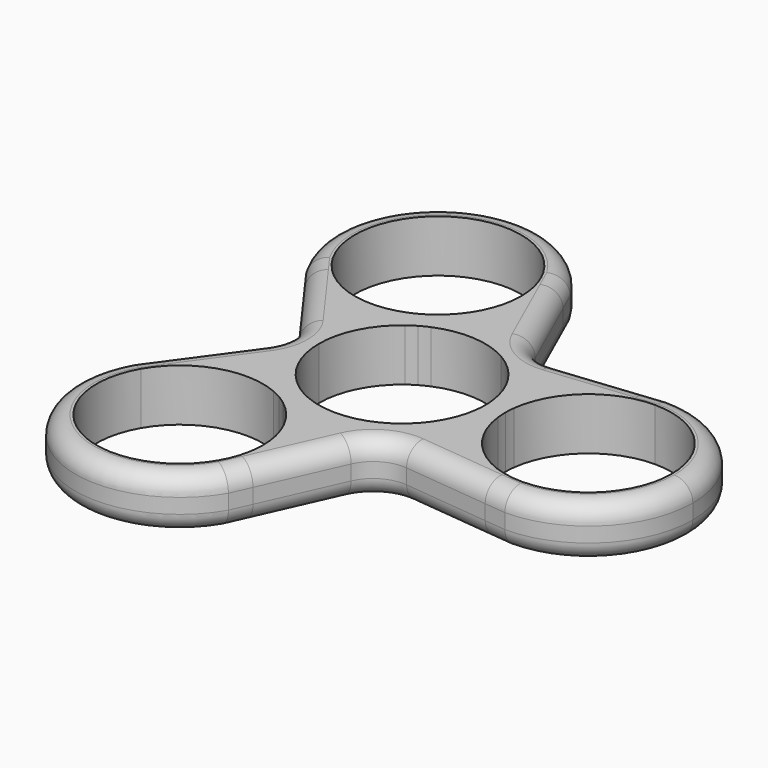
from build123d import *

# Parameters (mm, degrees)
F1_DEPTH = 7
F2_R     = 5
F3_R     = 2.5


with BuildPart() as f1:
    # F0 (on Top) → F1 (new body)
    with BuildSketch(Plane.XY):
        with BuildLine():
            Line((-129.1877796705, 35.6983955948), (-126.7196072697, 37.1233955948))
            ThreePointArc((-126.7196072697, 37.1233955948), (-145.8439629227, 42.2477512478), (-150.9683185757, 23.1233955948))
            Line((-150.9683185757, 23.1233955948), (-148.5001461749, 24.5483955948))
            ThreePointArc((-148.5001461749, 24.5483955948), (-144.4189629227, 39.779578847), (-129.1877796705, 35.6983955948))
        make_face()
        with BuildLine():
            ThreePointArc((-132.1308488185, 21.220778057), (-129.6893499336, 22.0671853041), (-127.1338805057, 22.4504581008))
            ThreePointArc((-127.1338805057, 22.4504581008), (-125.428651636, 26.119719399), (-124.8439629227, 30.1233955948))
            ThreePointArc((-124.8439629227, 30.1233955948), (-125.0182852132, 32.325811512), (-125.5369109044, 34.4733802595))
            Line((-125.5369109044, 34.4733802595), (-126.7196072697, 37.1233955948))
            Line((-126.7196072697, 37.1233955948), (-129.1877796705, 35.6983955948))
            ThreePointArc((-129.1877796705, 35.6983955948), (-128.0738899596, 33.0092279477), (-127.6939629227, 30.1233955948))
            ThreePointArc((-127.6939629227, 30.1233955948), (-128.8646412458, 25.1499019667), (-132.1308488185, 21.220778057))
        make_face()
        with BuildLine():
            Line((-148.5001461749, 24.5483955948), (-150.9683185757, 23.1233955948))
            Line((-150.9683185757, 23.1233955948), (-149.2646861575, 20.7741428299))
            ThreePointArc((-149.2646861575, 20.7741428299), (-144.1865961475, 17.1829060282), (-138.0540453397, 16.1456979943))
            ThreePointArc((-138.0540453397, 16.1456979943), (-136.4443866472, 18.1671630391), (-134.4906270269, 19.8583594732))
            ThreePointArc((-134.4906270269, 19.8583594732), (-142.3836178814, 19.5501584948), (-148.5001461749, 24.5483955948))
        make_face()
        with BuildLine():
            Line((-131.9189629227, 18.1289437524), (-133.2689629227, 20.4672123426))
            ThreePointArc((-133.2689629227, 20.4672123426), (-133.8704692945, 20.144073918), (-134.4906270269, 19.8583594732))
            ThreePointArc((-134.4906270269, 19.8583594732), (-136.4443866472, 18.1671630391), (-138.0540453397, 16.1456979943))
            ThreePointArc((-138.0540453397, 16.1456979943), (-135.4985759118, 16.528970791), (-133.0570770269, 17.375378038))
            ThreePointArc((-133.0570770269, 17.375378038), (-132.4995621933, 17.7695931662), (-131.9189629227, 18.1289437524))
        make_face()
        with BuildLine():
            ThreePointArc((-130.6972988185, 18.7377966218), (-128.7435391981, 20.428993056), (-127.1338805057, 22.4504581008))
            ThreePointArc((-127.1338805057, 22.4504581008), (-129.6893499336, 22.0671853041), (-132.1308488185, 21.220778057))
            ThreePointArc((-132.1308488185, 21.220778057), (-132.6883636521, 20.8265629289), (-133.2689629227, 20.4672123426))
            Line((-133.2689629227, 20.4672123426), (-131.9189629227, 18.1289437524))
            ThreePointArc((-131.9189629227, 18.1289437524), (-131.3174565508, 18.4520821771), (-130.6972988185, 18.7377966218))
        make_face()
        with BuildLine():
            Line((-120.7689629227, 18.1289437524), (-119.3439629227, 20.5971161532))
            ThreePointArc((-119.3439629227, 20.5971161532), (-123.1035925735, 22.0925989721), (-127.1338805057, 22.4504581008))
            ThreePointArc((-127.1338805057, 22.4504581008), (-128.7435391981, 20.428993056), (-130.6972988185, 18.7377966218))
            ThreePointArc((-130.6972988185, 18.7377966218), (-125.6614739118, 19.601853399), (-120.7689629227, 18.1289437524))
        make_face()
        with BuildLine():
            Line((-140.3439629227, 8.4727605002), (-137.4939629227, 8.4727605002))
            ThreePointArc((-137.4939629227, 8.4727605002), (-136.3232845996, 13.4462541284), (-133.0570770269, 17.375378038))
            ThreePointArc((-133.0570770269, 17.375378038), (-135.4985759118, 16.528970791), (-138.0540453397, 16.1456979943))
            ThreePointArc((-138.0540453397, 16.1456979943), (-139.7592742094, 12.4764366961), (-140.3439629227, 8.4727605002))
        make_face()
        with BuildLine():
            ThreePointArc((-133.0570770269, -0.4298570376), (-136.3232845996, 3.4992668721), (-137.4939629227, 8.4727605002))
            Line((-137.4939629227, 8.4727605002), (-140.3439629227, 8.4727605002))
            ThreePointArc((-140.3439629227, 8.4727605002), (-139.7592742094, 4.4690843044), (-138.0540453397, 0.7998230062))
            ThreePointArc((-138.0540453397, 0.7998230062), (-135.4985759118, 0.4165502095), (-133.0570770269, -0.4298570376))
        make_face()
        with BuildLine():
            Line((-149.2646861575, -3.8286218294), (-150.9683185757, -6.1778745944))
            Line((-150.9683185757, -6.1778745944), (-148.5001461749, -7.6028745944))
            ThreePointArc((-148.5001461749, -7.6028745944), (-142.3836178814, -2.6046374944), (-134.4906270269, -2.9128384728))
            ThreePointArc((-134.4906270269, -2.9128384728), (-136.4443866472, -1.2216420386), (-138.0540453397, 0.7998230062))
            ThreePointArc((-138.0540453397, 0.7998230062), (-144.1865961475, -0.2373850277), (-149.2646861575, -3.8286218294))
        make_face()
        with BuildLine():
            ThreePointArc((-134.4906270269, -2.9128384728), (-133.8704692945, -3.1985529175), (-133.2689629227, -3.5216913422))
            Line((-133.2689629227, -3.5216913422), (-131.9189629227, -1.183422752))
            ThreePointArc((-131.9189629227, -1.183422752), (-132.4995621933, -0.8240721658), (-133.0570770269, -0.4298570376))
            ThreePointArc((-133.0570770269, -0.4298570376), (-135.4985759118, 0.4165502095), (-138.0540453397, 0.7998230062))
            ThreePointArc((-138.0540453397, 0.7998230062), (-136.4443866472, -1.2216420386), (-134.4906270269, -2.9128384728))
        make_face()
        with BuildLine():
            ThreePointArc((-132.1308488185, -4.2752570566), (-129.6893499336, -5.1216643036), (-127.1338805057, -5.5049371003))
            ThreePointArc((-127.1338805057, -5.5049371003), (-128.7435391981, -3.4834720556), (-130.6972988185, -1.7922756214))
            ThreePointArc((-130.6972988185, -1.7922756214), (-131.3174565508, -1.5065611767), (-131.9189629227, -1.183422752))
            Line((-131.9189629227, -1.183422752), (-133.2689629227, -3.5216913422))
            ThreePointArc((-133.2689629227, -3.5216913422), (-132.6883636521, -3.8810419284), (-132.1308488185, -4.2752570566))
        make_face()
        with BuildLine():
            ThreePointArc((-127.1338805057, -5.5049371003), (-123.1035925735, -5.1470779716), (-119.3439629227, -3.6515951528))
            Line((-119.3439629227, -3.6515951528), (-120.7689629227, -1.183422752))
            ThreePointArc((-120.7689629227, -1.183422752), (-125.6614739118, -2.6563323986), (-130.6972988185, -1.7922756214))
            ThreePointArc((-130.6972988185, -1.7922756214), (-128.7435391981, -3.4834720556), (-127.1338805057, -5.5049371003))
        make_face()
        with BuildLine():
            ThreePointArc((-119.3439629227, -3.6515951528), (-116.1690219852, -1.1434017758), (-113.8439629227, 2.1680003938))
            ThreePointArc((-113.8439629227, 2.1680003938), (-114.7897736581, 4.5727382352), (-115.2775129227, 7.1103419164))
            ThreePointArc((-115.2775129227, 7.1103419164), (-117.0471302567, 2.3171612296), (-120.7689629227, -1.183422752))
            Line((-120.7689629227, -1.183422752), (-119.3439629227, -3.6515951528))
        make_face()
        with BuildLine():
            ThreePointArc((-113.8439629227, 2.1680003938), (-112.8981521873, 4.5727382352), (-112.4104129227, 7.1103419164))
            ThreePointArc((-112.4104129227, 7.1103419164), (-112.4730558215, 7.7902714893), (-112.4939629227, 8.4727605002))
            Line((-112.4939629227, 8.4727605002), (-115.1939629227, 8.4727605002))
            ThreePointArc((-115.1939629227, 8.4727605002), (-115.2148700239, 7.7902714893), (-115.2775129227, 7.1103419164))
            ThreePointArc((-115.2775129227, 7.1103419164), (-114.7897736581, 4.5727382352), (-113.8439629227, 2.1680003938))
        make_face()
        with BuildLine():
            ThreePointArc((-112.4939629227, 8.4727605002), (-112.4730558215, 9.1552495111), (-112.4104129227, 9.835179084))
            ThreePointArc((-112.4104129227, 9.835179084), (-112.8981521873, 12.3727827653), (-113.8439629227, 14.7775206067))
            ThreePointArc((-113.8439629227, 14.7775206067), (-114.7897736581, 12.3727827653), (-115.2775129227, 9.835179084))
            ThreePointArc((-115.2775129227, 9.835179084), (-115.2148700239, 9.1552495111), (-115.1939629227, 8.4727605002))
            Line((-115.1939629227, 8.4727605002), (-112.4939629227, 8.4727605002))
        make_face()
        with BuildLine():
            ThreePointArc((-115.2775129227, 9.835179084), (-114.7897736581, 12.3727827653), (-113.8439629227, 14.7775206067))
            ThreePointArc((-113.8439629227, 14.7775206067), (-116.1690219852, 18.0889227763), (-119.3439629227, 20.5971161532))
            Line((-119.3439629227, 20.5971161532), (-120.7689629227, 18.1289437524))
            ThreePointArc((-120.7689629227, 18.1289437524), (-117.0471302567, 14.6283597709), (-115.2775129227, 9.835179084))
        make_face()
        with BuildLine():
            ThreePointArc((-124.8439629227, -13.1778745944), (-125.428651636, -9.1741983985), (-127.1338805057, -5.5049371003))
            ThreePointArc((-127.1338805057, -5.5049371003), (-129.6893499336, -5.1216643036), (-132.1308488185, -4.2752570566))
            ThreePointArc((-132.1308488185, -4.2752570566), (-128.8646412458, -8.2043809662), (-127.6939629227, -13.1778745944))
            ThreePointArc((-127.6939629227, -13.1778745944), (-128.0738899596, -16.0637069473), (-129.1877796705, -18.7528745944))
            Line((-129.1877796705, -18.7528745944), (-126.7196072697, -20.1778745944))
            Line((-126.7196072697, -20.1778745944), (-125.5369109044, -17.5278592591))
            ThreePointArc((-125.5369109044, -17.5278592591), (-125.0182852132, -15.3802905115), (-124.8439629227, -13.1778745944))
        make_face()
        with BuildLine():
            ThreePointArc((-150.9683185757, -6.1778745944), (-145.8439629227, -25.3022302474), (-126.7196072697, -20.1778745944))
            Line((-126.7196072697, -20.1778745944), (-129.1877796705, -18.7528745944))
            ThreePointArc((-129.1877796705, -18.7528745944), (-144.4189629227, -22.8340578466), (-148.5001461749, -7.6028745944))
            Line((-148.5001461749, -7.6028745944), (-150.9683185757, -6.1778745944))
        make_face()
        with BuildLine():
            ThreePointArc((-101.3439629227, -2.6772394998), (-108.7308273722, 0.1207108353), (-112.4104129227, 7.1103419164))
            ThreePointArc((-112.4104129227, 7.1103419164), (-112.8981521873, 4.5727382352), (-113.8439629227, 2.1680003938))
            ThreePointArc((-113.8439629227, 2.1680003938), (-109.8794390124, -2.6243403789), (-104.2302917061, -5.2264769294))
            Line((-104.2302917061, -5.2264769294), (-101.3439629227, -5.5272394998))
            Line((-101.3439629227, -5.5272394998), (-101.3439629227, -2.6772394998))
        make_face()
        with BuildLine():
            ThreePointArc((-113.8439629227, 14.7775206067), (-112.8981521873, 12.3727827653), (-112.4104129227, 9.835179084))
            ThreePointArc((-112.4104129227, 9.835179084), (-108.7308273722, 16.8248101651), (-101.3439629227, 19.6227605002))
            Line((-101.3439629227, 19.6227605002), (-101.3439629227, 22.4727605002))
            Line((-101.3439629227, 22.4727605002), (-104.2302917061, 22.1719979299))
            ThreePointArc((-104.2302917061, 22.1719979299), (-109.8794390124, 19.5698613793), (-113.8439629227, 14.7775206067))
        make_face()
        with BuildLine():
            Line((-101.3439629227, 22.4727605002), (-101.3439629227, 19.6227605002))
            ThreePointArc((-101.3439629227, 19.6227605002), (-93.4597223125, 16.3570011105), (-90.1939629227, 8.4727605002))
            ThreePointArc((-90.1939629227, 8.4727605002), (-93.4597223125, 0.58851989), (-101.3439629227, -2.6772394998))
            Line((-101.3439629227, -2.6772394998), (-101.3439629227, -5.5272394998))
            ThreePointArc((-101.3439629227, -5.5272394998), (-91.4444679861, -1.4267344364), (-87.3439629227, 8.4727605002))
            ThreePointArc((-87.3439629227, 8.4727605002), (-91.4444679861, 18.3722554368), (-101.3439629227, 22.4727605002))
        make_face()
        with BuildLine():
            Line((-149.2646861575, 20.7741428299), (-140.3439629227, 8.4727605002))
            ThreePointArc((-140.3439629227, 8.4727605002), (-139.7592742094, 12.4764366961), (-138.0540453397, 16.1456979943))
            ThreePointArc((-138.0540453397, 16.1456979943), (-144.1865961475, 17.1829060282), (-149.2646861575, 20.7741428299))
        make_face()
        with BuildLine():
            ThreePointArc((-138.0540453397, 0.7998230062), (-139.7592742094, 4.4690843044), (-140.3439629227, 8.4727605002))
            Line((-140.3439629227, 8.4727605002), (-149.2646861575, -3.8286218294))
            ThreePointArc((-149.2646861575, -3.8286218294), (-144.1865961475, -0.2373850277), (-138.0540453397, 0.7998230062))
        make_face()
        with BuildLine():
            Line((-125.5369109044, -17.5278592591), (-119.3439629227, -3.6515951528))
            ThreePointArc((-119.3439629227, -3.6515951528), (-123.1035925735, -5.1470779716), (-127.1338805057, -5.5049371003))
            ThreePointArc((-127.1338805057, -5.5049371003), (-125.428651636, -9.1741983985), (-124.8439629227, -13.1778745944))
            ThreePointArc((-124.8439629227, -13.1778745944), (-125.0182852132, -15.3802905115), (-125.5369109044, -17.5278592591))
        make_face()
        with BuildLine():
            ThreePointArc((-104.2302917061, -5.2264769294), (-109.8794390124, -2.6243403789), (-113.8439629227, 2.1680003938))
            ThreePointArc((-113.8439629227, 2.1680003938), (-116.1690219852, -1.1434017758), (-119.3439629227, -3.6515951528))
            Line((-119.3439629227, -3.6515951528), (-104.2302917061, -5.2264769294))
        make_face()
        with BuildLine():
            ThreePointArc((-119.3439629227, 20.5971161532), (-116.1690219852, 18.0889227763), (-113.8439629227, 14.7775206067))
            ThreePointArc((-113.8439629227, 14.7775206067), (-109.8794390124, 19.5698613793), (-104.2302917061, 22.1719979299))
            Line((-104.2302917061, 22.1719979299), (-119.3439629227, 20.5971161532))
        make_face()
        with BuildLine():
            ThreePointArc((-127.1338805057, 22.4504581008), (-123.1035925735, 22.0925989721), (-119.3439629227, 20.5971161532))
            Line((-119.3439629227, 20.5971161532), (-125.5369109044, 34.4733802595))
            ThreePointArc((-125.5369109044, 34.4733802595), (-125.0182852132, 32.325811512), (-124.8439629227, 30.1233955948))
            ThreePointArc((-124.8439629227, 30.1233955948), (-125.428651636, 26.119719399), (-127.1338805057, 22.4504581008))
        make_face()
    extrude(amount=F1_DEPTH)

    # F2
    f2_edges = [f1.edges().sort_by_distance(p)[0] for p in [
        (-119.343963, -3.651595, 3.5),
        (-140.343963, 8.472761, 3.5),
        (-119.343963, 20.597116, 3.5),
    ]]
    fillet(f2_edges, radius=F2_R)

    # F3
    f3_edges = [f1.edges().sort_by_distance(p)[0] for p in [
        (-123.770656, -13.57029, 7),
        (-145.843963, -25.30223, 7),
        (-146.720458, -0.320215, 7),
        (-141.520303, 8.472761, 7),
        (-146.720458, 17.265736, 7),
        (-145.843963, 42.247751, 7),
        (-123.770656, 30.515811, 7),
        (-87.343963, 8.472761, 7),
        (-108.540775, 21.722835, 0),
        (-145.843963, 42.247751, 0),
        (-141.520303, 8.472761, 0),
        (-145.843963, -25.30223, 0),
        (-123.770656, -13.57029, 0),
        (-87.343963, 8.472761, 0),
    ]]
    fillet(f3_edges, radius=F3_R)


solid = f1.part
